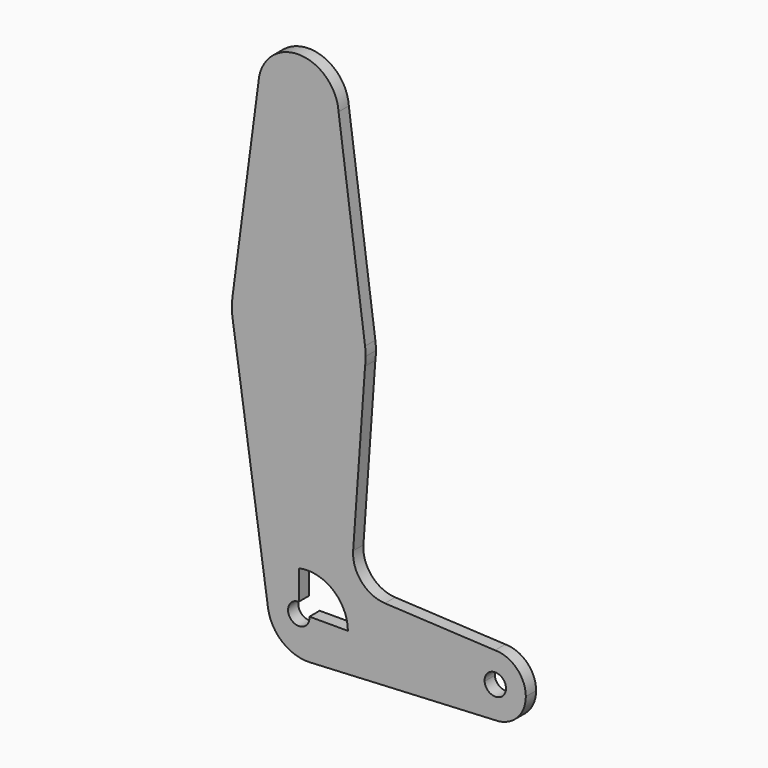
from build123d import *

# Parameters (mm, degrees)
F1_DEPTH = 3.048


with BuildPart() as f1:
    # F0 (on Front) → F1 (new body)
    with BuildSketch(Plane.XZ):
        with BuildLine():
            ThreePointArc((-37.113798, 63.749807), (-39.882211, 57.036079), (-46.578186, 54.225))
            Line((-46.578186, 54.225), (-46.578186, 31.230521))
            ThreePointArc((-46.578186, 31.230521), (-36.125574, 27.303681), (-30.844078, 17.465848))
            Line((-30.844078, 17.465848), (-37.133033, 64.354826))
            ThreePointArc((-37.133033, 64.354826), (-37.118608, 64.052469), (-37.113798, 63.749807))
        make_face()
        with BuildLine():
            Line((-46.578186, 31.230521), (-46.578186, 54.225))
            ThreePointArc((-46.578186, 54.225), (-53.563831, 57.209964), (-56.144564, 64.354826))
            Line((-56.144564, 64.354826), (-62.317602, 17.425885))
            ThreePointArc((-62.317602, 17.425885), (-57.04596, 27.2904), (-46.578186, 31.230521))
        make_face()
        with BuildLine():
            ThreePointArc((-56.144564, 64.354826), (-53.563831, 57.209964), (-46.578186, 54.225))
            ThreePointArc((-46.578186, 54.225), (-39.882211, 57.036079), (-37.113798, 63.749807))
            ThreePointArc((-37.113798, 63.749807), (-37.118608, 64.052469), (-37.133033, 64.354826))
            ThreePointArc((-37.133033, 64.354826), (-46.638798, 73.274807), (-56.144564, 64.354826))
        make_face()
        with BuildLine():
            ThreePointArc((-30.844078, 17.465848), (-36.125574, 27.303681), (-46.578186, 31.230521))
            Line((-46.578186, 31.230521), (-46.578186, -0.519479))
            ThreePointArc((-46.578186, -0.519479), (-36.125574, 3.40736), (-30.844078, 13.245193))
            ThreePointArc((-30.844078, 13.245193), (-30.738448, 14.298008), (-30.703186, 15.355521))
            ThreePointArc((-30.703186, 15.355521), (-30.738448, 16.413033), (-30.844078, 17.465848))
        make_face()
        with BuildLine():
            Line((-46.578186, -0.519479), (-46.578186, 31.230521))
            ThreePointArc((-46.578186, 31.230521), (-57.04596, 27.2904), (-62.317602, 17.425885))
            ThreePointArc((-62.317602, 17.425885), (-62.453007, 15.430795), (-62.336528, 13.434511))
            Line((-62.336528, 13.434511), (-62.230519, 12.705976))
            ThreePointArc((-62.230519, 12.705976), (-56.824017, 3.229575), (-46.578186, -0.519479))
        make_face()
        with BuildLine():
            ThreePointArc((-30.844078, 13.245193), (-36.125574, 3.40736), (-46.578186, -0.519479))
            Line((-46.578186, -0.519479), (-46.578186, -34.055687))
            ThreePointArc((-46.578186, -34.055687), (-38.514739, -35.890173), (-34.925, -43.339891))
            Line((-34.925, -43.339891), (-7.302398, -43.339891))
            ThreePointArc((-7.302398, -43.339891), (-5.163575, -38.176316), (0, -36.037493))
            Line((0, -36.037493), (-26.142202, -34.723249))
            ThreePointArc((-26.142202, -34.723249), (-31.696382, -32.052159), (-33.672876, -26.2146))
            Line((-33.672876, -26.2146), (-30.844078, 13.245193))
        make_face()
        with BuildLine():
            Line((-46.578186, -34.055687), (-46.578186, -0.519479))
            ThreePointArc((-46.578186, -0.519479), (-56.824017, 3.229575), (-62.230519, 12.705976))
            Line((-62.230519, 12.705976), (-53.875737, -44.711426))
            ThreePointArc((-53.875737, -44.711426), (-52.30872, -37.957871), (-46.578186, -34.055687))
        make_face()
        with BuildLine():
            Line((-46.578186, -41.055174), (-46.578186, -34.055687))
            ThreePointArc((-46.578186, -34.055687), (-52.30872, -37.957871), (-53.875737, -44.711426))
            ThreePointArc((-53.875737, -44.711426), (-50.498571, -50.697908), (-43.971755, -52.852877))
            ThreePointArc((-43.971755, -52.852877), (-37.547794, -49.90382), (-34.925, -43.339891))
            Line((-34.925, -43.339891), (-44.051047, -43.339891))
            ThreePointArc((-44.051047, -43.339891), (-44.041403, -43.467371), (-44.038186, -43.595174))
            ThreePointArc((-44.038186, -43.595174), (-48.374237, -45.391225), (-46.578186, -41.055174))
        make_face()
        with BuildLine():
            ThreePointArc((-62.336528, 13.434511), (-62.287747, 13.069629), (-62.230519, 12.705976))
            Line((-62.230519, 12.705976), (-62.336528, 13.434511))
        make_face()
        with BuildLine():
            Line((-7.302398, -43.339891), (-34.925, -43.339891))
            ThreePointArc((-34.925, -43.339891), (-37.547794, -49.90382), (-43.971755, -52.852877))
            Line((-43.971755, -52.852877), (0, -50.642289))
            ThreePointArc((0, -50.642289), (-5.163575, -48.503466), (-7.302398, -43.339891))
        make_face()
        with BuildLine():
            ThreePointArc((2.595183, -43.169007), (-0.030308, -40.630446), (-2.479062, -43.339891))
            ThreePointArc((-2.479062, -43.339891), (0.140674, -45.707568), (2.595183, -43.169007))
        make_face()
        with BuildLine():
            ThreePointArc((0, -36.037493), (-5.163575, -38.176316), (-7.302398, -43.339891))
            ThreePointArc((-7.302398, -43.339891), (-5.163575, -48.503466), (0, -50.642289))
            ThreePointArc((0, -50.642289), (5.163575, -48.503466), (7.302398, -43.339891))
            ThreePointArc((7.302398, -43.339891), (5.163575, -38.176316), (0, -36.037493))
        make_face()
        with BuildLine():
            ThreePointArc((2.595183, -43.169007), (0.140674, -45.707568), (-2.479062, -43.339891))
            ThreePointArc((-2.479062, -43.339891), (-0.030308, -40.630446), (2.595183, -43.169007))
        make_face(mode=Mode.SUBTRACT)
    extrude(amount=F1_DEPTH)


solid = f1.part
